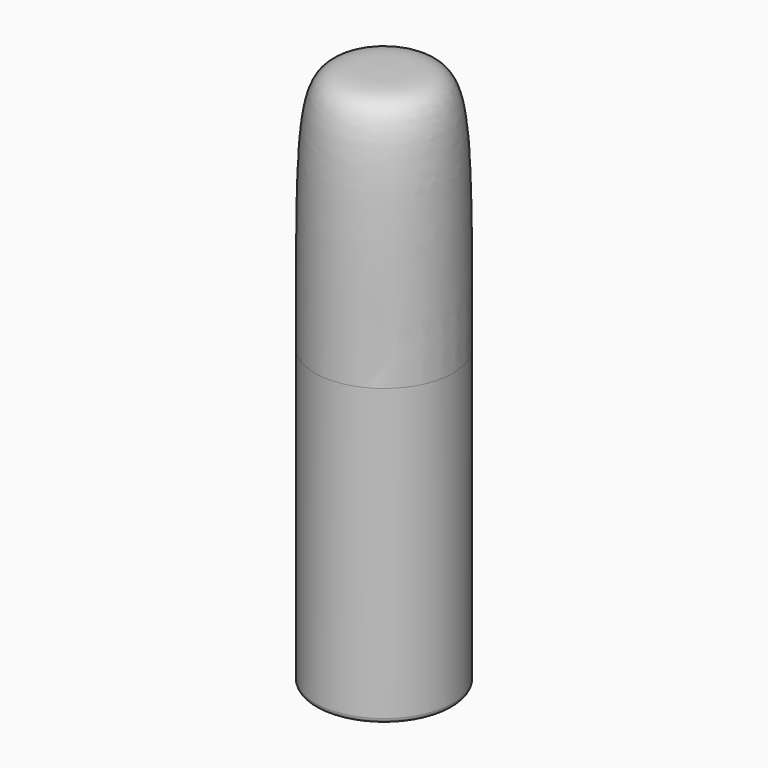
from build123d import *


with BuildPart() as f2:
    # F0 (on Right) → F2 (revolve)
    with BuildSketch(Plane.YZ):
        with BuildLine():
            Line((0, 13.97), (0, 0))
            Line((0, 0), (1.651, 0))
            ThreePointArc((1.651, 0), (1.7408025612, 0.0371974388), (1.778, 0.127))
            Line((1.778, 0.127), (1.778, 7.62))
            add(Edge.make_bspline(
                [(0, 13.97), (1.7799074994, 13.9221027493), (1.7694552662, 14.4231198356), (1.778, 7.62)],
                knots=[0, 0, 0, 0, 6.5942235328, 6.5942235328, 6.5942235328, 6.5942235328], degree=3))
        make_face()
    revolve(axis=Axis((0, 0, 0), (0, 0, 1)))


solid = f2.part
